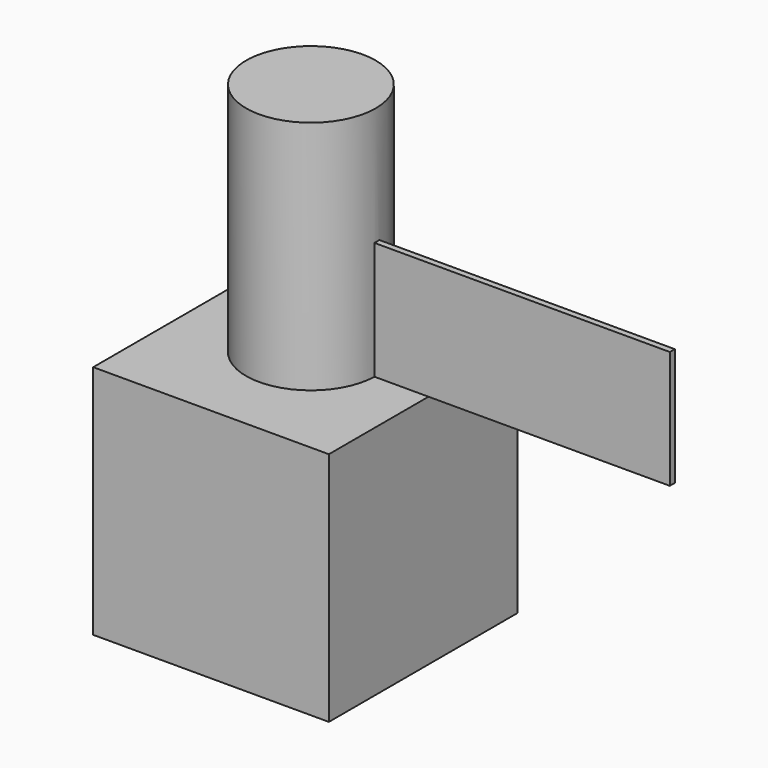
from build123d import *

# Parameters (mm, degrees)
F0_W     = 101.6
F0_H     = 101.6
F1_DEPTH = 101.6
F2_R     = 27.94
F3_DEPTH = 101.6
F5_W     = 156.614647
F5_H     = 2.673365
F6_DEPTH = 50.8


with BuildPart() as f1:
    # F0 (on Front) → F1 (new body)
    with BuildSketch(Plane.XZ):
        with Locations((-50.8, 50.8)):
            Rectangle(F0_W, F0_H)
    extrude(amount=F1_DEPTH)

    # F2 (on face) → F3 (join)
    with BuildSketch(Plane.XY.offset(101.6)):
        with Locations((-51.241014, -47.230963)):
            Circle(F2_R)
    extrude(amount=F3_DEPTH)

    # F5 (on face) → F6 (join)
    with BuildSketch(Plane.XY.offset(101.6)):
        with Locations((25.729626, -46.562624)):
            Rectangle(F5_W, F5_H)
    extrude(amount=F6_DEPTH)


solid = f1.part
